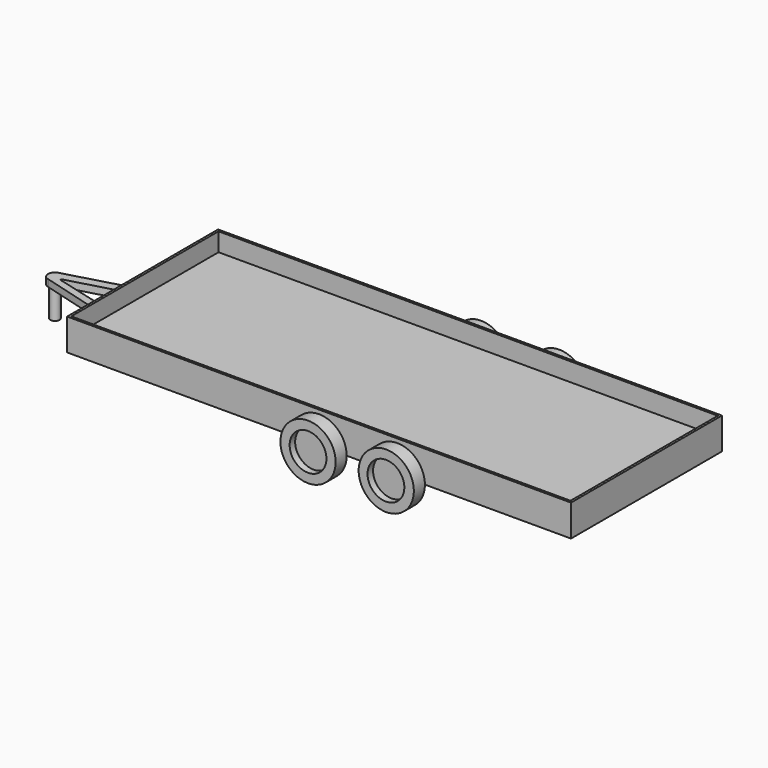
from build123d import *

# Parameters (mm, degrees)
F0_W      = 5562.6
F0_H      = 2082.8
F1_DEPTH  = 349.25
F2_W      = 5511.8
F2_H      = 2032
F3_DEPTH  = 203.2
F5_DEPTH  = 152.4
F6_R      = 203.2
F7_DEPTH  = 76.2
F9_DEPTH  = 152.4
F10_R     = 203.2
F11_DEPTH = 76.2
F13_DEPTH = 76.2
F14_R     = 50.8
F15_DEPTH = 330.2


with BuildPart() as f1:
    # F0 (on Top) → F1 (new body)
    with BuildSketch(Plane.XY):
        Rectangle(F0_W, F0_H)
    extrude(amount=F1_DEPTH)

    # F2 (on face) → F3 (cut)
    with BuildSketch(Plane.XY.offset(349.25)):
        Rectangle(F2_W, F2_H)
    extrude(amount=-F3_DEPTH, mode=Mode.SUBTRACT)

    # F4 (on face) → F5 (join)
    with BuildSketch(Plane.XZ.offset(1041.4)):
        with BuildLine():
            ThreePointArc((-304.8, 0), (0, -304.8), (304.8, 0))
            Line((304.8, 0), (-304.8, 0))
        make_face()
        with BuildLine():
            Line((-304.8, 0), (304.8, 0))
            ThreePointArc((304.8, 0), (0, 304.8), (-304.8, 0))
        make_face()
        with BuildLine():
            Line((1168.4, 0), (558.8, 0))
            ThreePointArc((558.8, 0), (863.6, -304.8), (1168.4, 0))
        make_face()
        with BuildLine():
            ThreePointArc((1168.4, 0), (863.6, 304.8), (558.8, 0))
            Line((558.8, 0), (1168.4, 0))
        make_face()
    extrude(amount=F5_DEPTH)

    # F6 (on face) → F7 (cut)
    with BuildSketch(Plane.XZ.offset(1193.8)):
        Circle(F6_R)
        with Locations((860.157311, 0)):
            Circle(F6_R)
    extrude(amount=-F7_DEPTH, mode=Mode.SUBTRACT)

    # F8 (on face) → F9 (join)
    with BuildSketch(Plane(origin=(0, 1041.4, 0), x_dir=(-1, 0, 0), z_dir=(0, 1, 0))):
        with BuildLine():
            ThreePointArc((-1168.4, 0), (-863.6, -304.8), (-558.8, 0))
            Line((-558.8, 0), (-1168.4, 0))
        make_face()
        with BuildLine():
            Line((-1168.4, 0), (-558.8, 0))
            ThreePointArc((-558.8, 0), (-863.6, 304.8), (-1168.4, 0))
        make_face()
        with BuildLine():
            ThreePointArc((-304.8, 0), (0, -304.8), (304.8, 0))
            Line((304.8, 0), (-304.8, 0))
        make_face()
        with BuildLine():
            Line((-304.8, 0), (304.8, 0))
            ThreePointArc((304.8, 0), (0, 304.8), (-304.8, 0))
        make_face()
    extrude(amount=F9_DEPTH)

    # F10 (on face) → F11 (cut)
    with BuildSketch(Plane(origin=(0, 1193.8, 0), x_dir=(-1, 0, 0), z_dir=(0, 1, 0))):
        with Locations((-863.6, 0)):
            Circle(F10_R)
        Circle(F10_R)
    extrude(amount=-F11_DEPTH, mode=Mode.SUBTRACT)


with BuildPart() as f13:
    # F12 (on face) → F13 (new body)
    with BuildSketch(Plane(origin=(0, 0, 0), x_dir=(1, 0, 0), z_dir=(0, 0, -1))):
        with BuildLine():
            Line((-2781.3, 348.878597), (-3759.639471, 75.522188))
            Line((-3759.639471, 75.522188), (-3779.973202, 69.84077))
            ThreePointArc((-3779.973202, 69.84077), (-3825.513466, -5.307215), (-3769.972559, -73.397911))
            Line((-3769.972559, -73.397911), (-2781.3, -349.184104))
            Line((-2781.3, -349.184104), (-2781.3, -243.716969))
            Line((-2781.3, -243.716969), (-3673.47281, 5.151011))
            ThreePointArc((-3673.47281, 5.151011), (-3674.301387, 12.322042), (-3675.804825, 19.382488))
            Line((-3675.804825, 19.382488), (-2781.3, 254.649992))
            Line((-2781.3, 254.649992), (-2781.3, 348.878597))
        make_face()
        Polygon((-2120.9, 533.4), (-2781.3, 348.878597), (-2781.3, 254.649992), (-2095.056682, 435.141754), align=None)
        Polygon((-2781.3, -243.716969), (-2781.3, -349.184104), (-2120.9, -533.4), (-2095.056682, -435.141754), align=None)
    extrude(amount=F13_DEPTH)


with BuildPart() as f15:
    # F14 (on face) → F15 (new body)
    with BuildSketch(Plane(origin=(0, 0, -76.2), x_dir=(1, 0, 0), z_dir=(0, 0, -1))):
        with Locations((-3749.49851, 0)):
            Circle(F14_R)
    extrude(amount=F15_DEPTH)


solid = Compound([f1.part, f13.part, f15.part])
